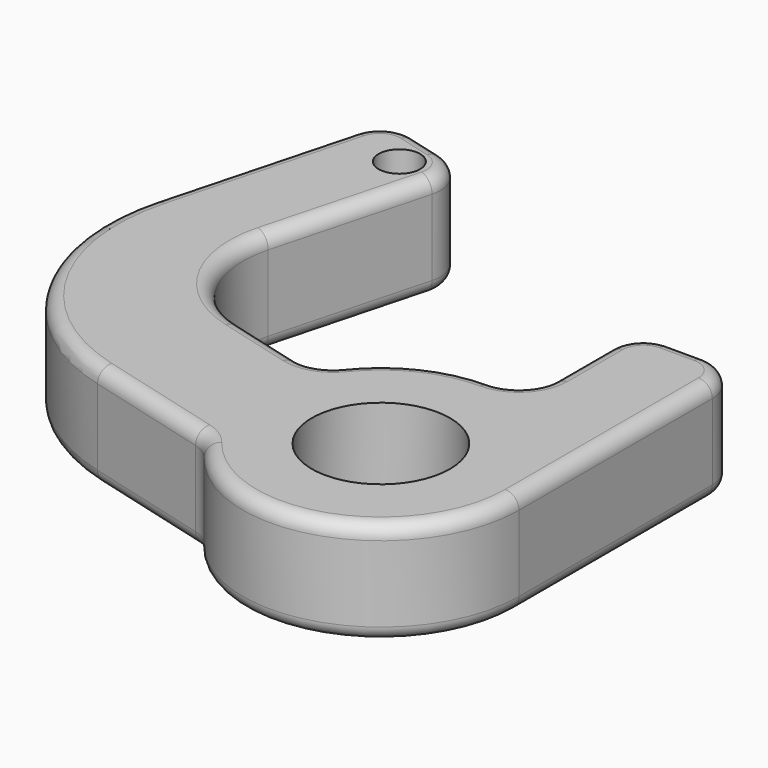
from build123d import *

# Parameters (mm, degrees)
F0_R     = 10
F1_DEPTH = 15
F2_R     = 5
F3_R     = 5
F4_R     = 2
F6_DEPTH = 3
F7_R     = 3
F8_DEPTH = 15
F9_R     = 0.5


with BuildPart() as f1:
    # F0 (on Top) → F1 (new body)
    with BuildSketch(Plane.XY):
        with BuildLine():
            Line((-36.549074, -5.614274), (-16.757368, -10.917446))
            ThreePointArc((-16.757368, -10.917446), (-19.991912, -0.568736), (-17.35093, 9.947122))
            Line((-17.35093, 9.947122), (-31.372693, 13.704243))
            ThreePointArc((-31.372693, 13.704243), (-40.480789, 20.69313), (-41.979295, 32.075416))
            Line((-41.979295, 32.075416), (-34.732362, 59.121339))
            Line((-34.732362, 59.121339), (-49.221249, 63.003624))
            Line((-49.221249, 63.003624), (-57.762278, 31.128072))
            ThreePointArc((-57.762278, 31.128072), (-54.765265, 8.363501), (-36.549074, -5.614274))
        make_face()
        with BuildLine():
            ThreePointArc((-16.757368, -10.917446), (5.694411, -19.172211), (20, 0))
            ThreePointArc((20, 0), (15.811388, 12.247449), (5, 19.364917))
            ThreePointArc((5, 19.364917), (-7.765956, 18.430679), (-17.35093, 9.947122))
            ThreePointArc((-17.35093, 9.947122), (-19.991912, -0.568736), (-16.757368, -10.917446))
        make_face()
        Circle(F0_R, mode=Mode.SUBTRACT)
        with BuildLine():
            ThreePointArc((5, 19.364917), (15.811388, 12.247449), (20, 0))
            Line((20, 0), (20, 40))
            Line((20, 40), (5, 40))
            Line((5, 40), (5, 19.364917))
        make_face()
    extrude(amount=F1_DEPTH)

    # F2
    f2_edges = [f1.edges().sort_by_distance(p)[0] for p in [
        (-17.35093, 9.947122, 7.5),
        (5, 19.364917, 7.5),
    ]]
    fillet(f2_edges, radius=F2_R)

    # F3
    f3_edges = [f1.edges().sort_by_distance(p)[0] for p in [
        (-49.221249, 63.003624, 7.5),
        (-34.732362, 59.121339, 7.5),
        (5, 40, 7.5),
        (20, 40, 7.5),
        (-16.757368, -10.917446, 7.5),
    ]]
    fillet(f3_edges, radius=F3_R)

    # F4
    f4_edges = [f1.edges().sort_by_distance(p)[0] for p in [
        (-54.138811, 44.651034, 15),
        (-26.065247, 12.282117, 0),
    ]]
    fillet(f4_edges, radius=F4_R)

    # F5 (on face) → F6 (cut)
    with BuildSketch(Plane(origin=(0, 0, 0), x_dir=(1, 0, 0), z_dir=(0, 0, -1))):
        with BuildLine():
            Line((14.494917, -27.928844), (12.5, 0))
            ThreePointArc((12.5, 0), (-11.619433, 4.608555), (9.101795, -8.567807))
            Line((9.101795, -8.567807), (10.505083, -28.213832))
            ThreePointArc((10.505083, -28.213832), (12.642494, -30.066255), (14.494917, -27.928844))
        make_face()
    extrude(amount=-F6_DEPTH, mode=Mode.SUBTRACT)

    # F7 (on face) → F8 (cut, through all)
    with BuildSketch(Plane.XY.offset(15)):
        with Locations((-41.510969, 55.236049)):
            Circle(F7_R)
    extrude(amount=-F8_DEPTH, mode=Mode.SUBTRACT)

    # F9
    f9_edges = [f1.edges().sort_by_distance(p)[0] for p in [
        (9.101795, 8.567807, 1.5),
    ]]
    fillet(f9_edges, radius=F9_R)


solid = f1.part
